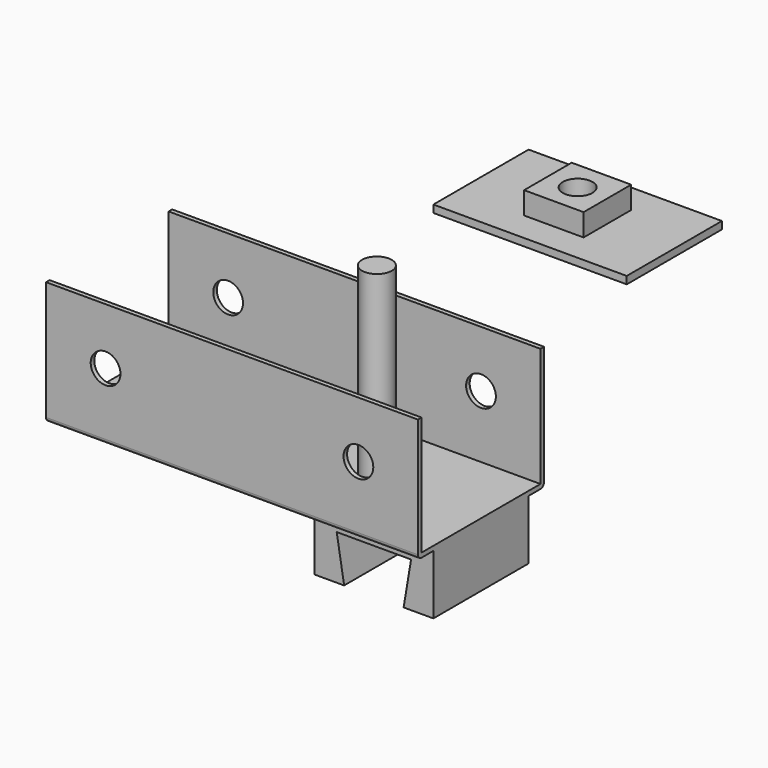
from build123d import *

# Parameters (mm, degrees)
F0_W     = 250
F0_H     = 80
F0_R     = 10
F3_DEPTH = 103
F4_DEPTH = 437
F2_R     = 10
F5_DEPTH = 130
F7_D     = 20


with BuildPart() as f3:
    # F0 (on Front) → F3 (new body, symmetric)
    with BuildSketch(Plane.XZ):
        with Locations((125, 45)):
            Rectangle(F0_W, F0_H)
        with Locations((40, 45)):
            Circle(F0_R, mode=Mode.SUBTRACT)
        with Locations((210, 45)):
            Circle(F0_R, mode=Mode.SUBTRACT)
        Polygon((0, 5), (0, 0), (170, 0), (250, 0), (250, 5), align=None)
        Polygon((250, 0), (170, 0), (170, -40), (190, -40), (185, -10), (235, -10), (230, -40), (250, -40), align=None)
    extrude(amount=F3_DEPTH, both=True)


with BuildPart() as f3b:
    # F0 (on Front) → F3, piece 2 (new body, symmetric)
    with BuildSketch(Plane.XZ):
        Polygon((250, 205), (250, 200), (380, 200), (380, 205), (335, 205), (335, 220), (295, 220), (295, 205), align=None)
    extrude(amount=F3_DEPTH, both=True)


with BuildPart() as f4_tool:
    # F1 (on Right) → F4 (new body)
    with BuildSketch(Plane.YZ):
        with BuildLine():
            Line((-40, 0), (0, 0))
            Line((0, 0), (40, 0))
            Line((40, 0), (50, 0))
            ThreePointArc((50, 0), (52.1213203436, 0.8786796564), (53, 3))
            Line((53, 3), (53, 83))
            Line((53, 83), (50, 83))
            Line((50, 83), (50, 3))
            Line((50, 3), (-50, 3))
            Line((-50, 3), (-50, 83))
            Line((-50, 83), (-53, 83))
            Line((-53, 83), (-53, 3))
            ThreePointArc((-53, 3), (-52.1213203436, 0.8786796564), (-50, 0))
            Line((-50, 0), (-40, 0))
        make_face()
        Polygon((40, 0), (0, 0), (-40, 0), (-40, -40), (0, -40), (40, -40), align=None)
        Polygon((-40, 200), (0, 200), (40, 200), (40, 205), (20, 205), (20, 220), (-20, 220), (-20, 205), (-40, 205), align=None)
    extrude(amount=F4_DEPTH)


with BuildPart() as f3_1:
    add(f3.part)

    # F4: intersect by f4_tool
    add(f4_tool.part, mode=Mode.INTERSECT)

    # F2 (on Top) → F5 (join)
    with BuildSketch(Plane.XY):
        with Locations((180, 0)):
            Circle(F2_R)
    extrude(amount=F5_DEPTH)


with BuildPart() as f3b_1:
    add(f3b.part)

    # F4: intersect by f4_tool
    add(f4_tool.part, mode=Mode.INTERSECT)

    # F7 (through all)
    with Locations(Plane.XY.offset(220)):
        with Locations((315, 0)):
            Hole(F7_D / 2)


solid = Compound([f3_1.part, f3b_1.part])
